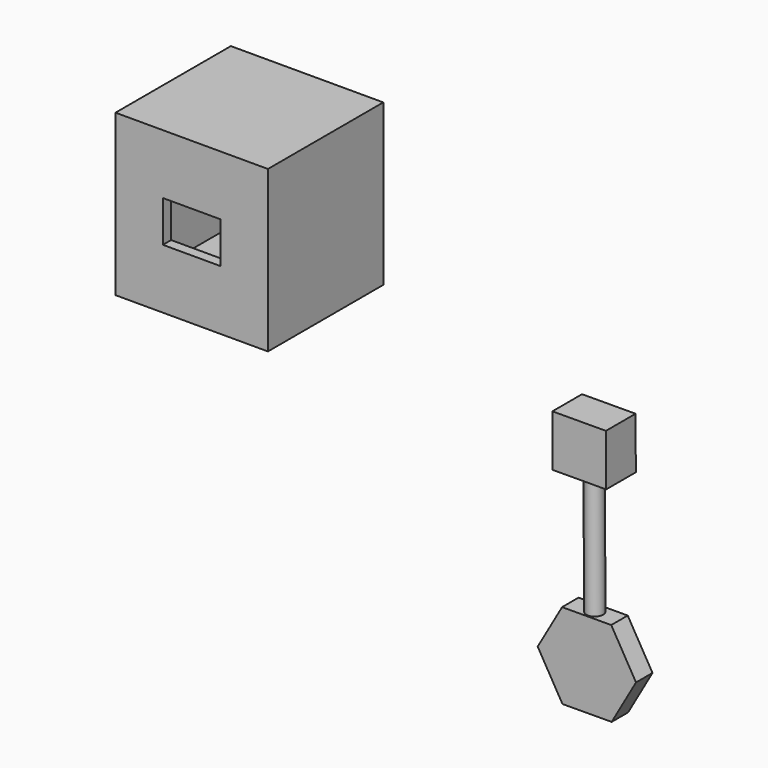
from build123d import *

# Parameters (mm, degrees)
F0_W     = 14
F0_H     = 10
F1_DEPTH = 20
F0_W_2   = 32
F0_H_2   = 34
F2_DEPTH = 30
F3_T     = 2.5
F5_DEPTH = 5
F6_R     = 2.0325085079
F7_DEPTH = 30
F8_W     = 13
F8_H     = 9
F9_DEPTH = 12.5


with BuildPart() as f1:
    # F0 (on Front) → F1 (new body)
    with BuildSketch(Plane.XZ):
        with Locations((-38.7646174058, 42.6897948307)):
            Rectangle(F0_W, F0_H)
    extrude(amount=F1_DEPTH)

    # F0 (on Front) → F2 (join)
    with BuildSketch(Plane.XZ):
        with Locations((-38.7646174058, 42.6897948307)):
            Rectangle(F0_W_2, F0_H_2)
        with Locations((-38.7646174058, 42.6897948307)):
            Rectangle(F0_W, F0_H, mode=Mode.SUBTRACT)
    extrude(amount=F2_DEPTH)

    # F3
    f3_openings = [f1.faces().sort_by_distance(p)[0] for p in [
        (-38.764617, -25, 47.689795),
        (-31.764617, -25, 42.689795),
        (-38.764617, -25, 37.689795),
        (-45.764617, -25, 42.689795),
        (-38.764617, -20, 42.689795),
    ]]
    offset(amount=F3_T, openings=f3_openings, kind=Kind.INTERSECTION)


with BuildPart() as f5:
    # F4 (on Front) → F5 (new body)
    with BuildSketch(Plane.XZ):
        Polygon((41.1687466269, -47.1749319755), (47.0910918946, -36.8108288324), (41.0766879191, -26.4998758091), (29.1399386759, -26.5530259288), (23.2175934081, -36.9171290719), (29.2319973836, -47.2280820953), align=None)
    extrude(amount=F5_DEPTH)

    # F6 (on face) → F7 (join)
    with BuildSketch(Plane(origin=(0.1188066014, 0, -26.6822467588), x_dir=(0.9999900871, 0, 0.0044526019), z_dir=(-0.0044526019, 0, 0.9999900871))):
        with Locations((35.0630283356, -2.6342964265)):
            Circle(F6_R)
    extrude(amount=F7_DEPTH)

    # F8 (on face) → F9 (join)
    with BuildSketch(Plane(origin=(-0.0147714568, 0, 3.3174558548), x_dir=(0.9999900871, 0, 0.0044526019), z_dir=(-0.0044526019, 0, 0.9999900871))):
        with Locations((35.0630283356, -2.6342964265)):
            Rectangle(F8_W, F8_H)
    extrude(amount=F9_DEPTH)


solid = Compound([f1.part, f5.part])
